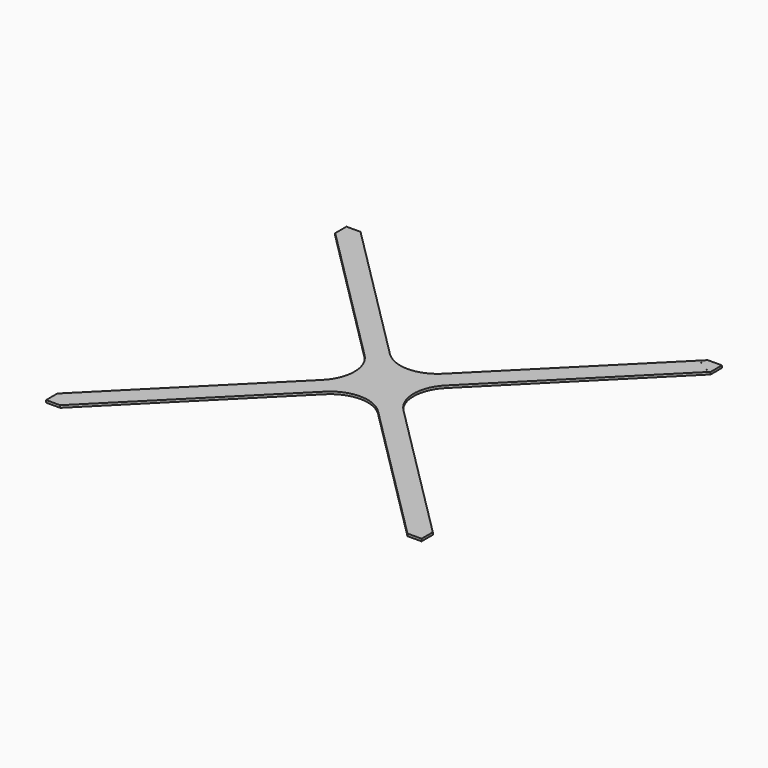
from build123d import *

# Parameters (mm, degrees)
F0_W     = 508
F0_H     = 508
F1_DEPTH = 3.175
F3_DEPTH = 3.176
F4_R     = 50.8
F6_D     = 0.254


with BuildPart() as f1:
    # F0 (on Top) → F1 (new body)
    with BuildSketch(Plane.XY):
        Rectangle(F0_W, F0_H)
    extrude(amount=F1_DEPTH)

    # F2 (on face) → F3 (cut, through all)
    with BuildSketch(Plane.XY.offset(3.175)):
        Polygon((-19.05, 0), (-254, 234.95), (-254, -234.95), align=None)
        Polygon((-234.95, 254), (0, 19.05), (234.95, 254), align=None)
        Polygon((254, -234.95), (254, 234.95), (19.05, 0), align=None)
        Polygon((-234.95, -254), (234.95, -254), (0, -19.05), align=None)
    extrude(amount=-F3_DEPTH, mode=Mode.SUBTRACT)

    # F4
    f4_edges = [f1.edges().sort_by_distance(p)[0] for p in [
        (-19.05, 0, 1.5875),
        (0, -19.05, 1.5875),
        (19.05, 0, 1.5875),
        (0, 19.05, 1.5875),
    ]]
    fillet(f4_edges, radius=F4_R)

    # F6 (through all)
    with Locations(Plane(origin=(0, 0, 0), x_dir=(1, 0, 0), z_dir=(0, 0, -1))):
        with Locations((-247.698735, -244.907756), (-245.49396, -232.400599), (-233.360497, -236.151476), (-235.565272, -248.658633), (-245.49396, 248.658633), (-233.360497, 244.907756), (-235.565272, 232.400599), (-247.698735, 236.151476), (233.360497, -244.907756), (245.49396, -248.658633), (247.698735, -236.151476), (235.565272, -232.400599), (245.49396, 232.400599), (233.360497, 236.151476), (235.565272, 248.658633), (247.698735, 244.907756)):
            Hole(F6_D / 2)


solid = f1.part
